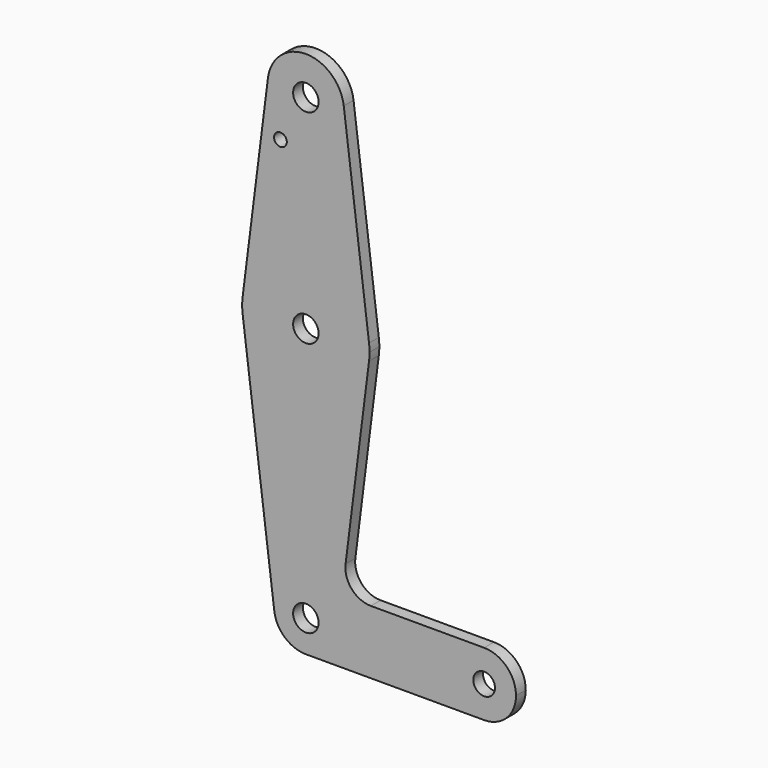
from build123d import *

# Parameters (mm, degrees)
F0_R     = 3.175
F0_R_2   = 1.5875
F0_R_3   = 2.704388
F1_DEPTH = 3.048


with BuildPart() as f1:
    # F0 (on Front) → F1 (new body)
    with BuildSketch(Plane.XZ):
        with BuildLine():
            ThreePointArc((-9.450293, 115.490625), (-0.596483, 104.793695), (9.525, 114.3))
            ThreePointArc((9.525, 114.3), (9.506305, 114.896483), (9.450293, 115.490625))
            ThreePointArc((9.450293, 115.490625), (0, 123.825), (-9.450293, 115.490625))
        make_face()
        with Locations((0, 114.3)):
            Circle(F0_R, mode=Mode.SUBTRACT)
        with BuildLine():
            ThreePointArc((9.450293, 115.490625), (9.506305, 114.896483), (9.525, 114.3))
            ThreePointArc((9.525, 114.3), (-0.596483, 104.793695), (-9.450293, 115.490625))
            Line((-9.450293, 115.490625), (-15.750488, 65.484375))
            ThreePointArc((-15.750488, 65.484375), (0, 79.375), (15.750488, 65.484375))
            Line((15.750488, 65.484375), (9.450293, 115.490625))
        make_face()
        with Locations((-6.338424, 102.946311)):
            Circle(F0_R_2, mode=Mode.SUBTRACT)
        with BuildLine():
            ThreePointArc((15.875, 63.5), (15.843841, 64.494139), (15.750488, 65.484375))
            ThreePointArc((15.750488, 65.484375), (0, 79.375), (-15.750488, 65.484375))
            ThreePointArc((-15.750488, 65.484375), (-15.875, 63.5), (-15.750488, 61.515625))
            ThreePointArc((-15.750488, 61.515625), (0, 47.625), (15.750488, 61.515625))
            ThreePointArc((15.750488, 61.515625), (15.843841, 62.505861), (15.875, 63.5))
        make_face()
        with Locations((0, 63.5)):
            Circle(F0_R, mode=Mode.SUBTRACT)
        with BuildLine():
            ThreePointArc((15.750488, 61.515625), (0, 47.625), (-15.750488, 61.515625))
            Line((-15.750488, 61.515625), (-7.875244, -0.992188))
            ThreePointArc((-7.875244, -0.992188), (-0.497069, 7.921921), (7.9375, 0))
            ThreePointArc((7.9375, 0), (5.61266, -5.61266), (0, -7.9375))
            Line((0, -7.9375), (44.45, -7.9375))
            ThreePointArc((44.45, -7.9375), (36.5125, 0), (44.45, 7.9375))
            Line((44.45, 7.9375), (16.200502, 7.9375))
            ThreePointArc((16.200502, 7.9375), (11.438002, 10.08737), (9.900307, 15.08125))
            Line((9.900307, 15.08125), (15.750488, 61.515625))
        make_face()
        with BuildLine():
            ThreePointArc((7.9375, 0), (-0.497069, 7.921921), (-7.875244, -0.992188))
            ThreePointArc((-7.875244, -0.992188), (-5.250163, -5.953125), (0, -7.9375))
            ThreePointArc((0, -7.9375), (5.61266, -5.61266), (7.9375, 0))
        make_face()
        Circle(F0_R, mode=Mode.SUBTRACT)
        with BuildLine():
            ThreePointArc((44.45, 7.9375), (36.5125, 0), (44.45, -7.9375))
            ThreePointArc((44.45, -7.9375), (50.06266, -5.61266), (52.3875, 0))
            ThreePointArc((52.3875, 0), (50.06266, 5.61266), (44.45, 7.9375))
        make_face()
        with Locations((44.45, 0)):
            Circle(F0_R_3, mode=Mode.SUBTRACT)
    extrude(amount=F1_DEPTH)


solid = f1.part
